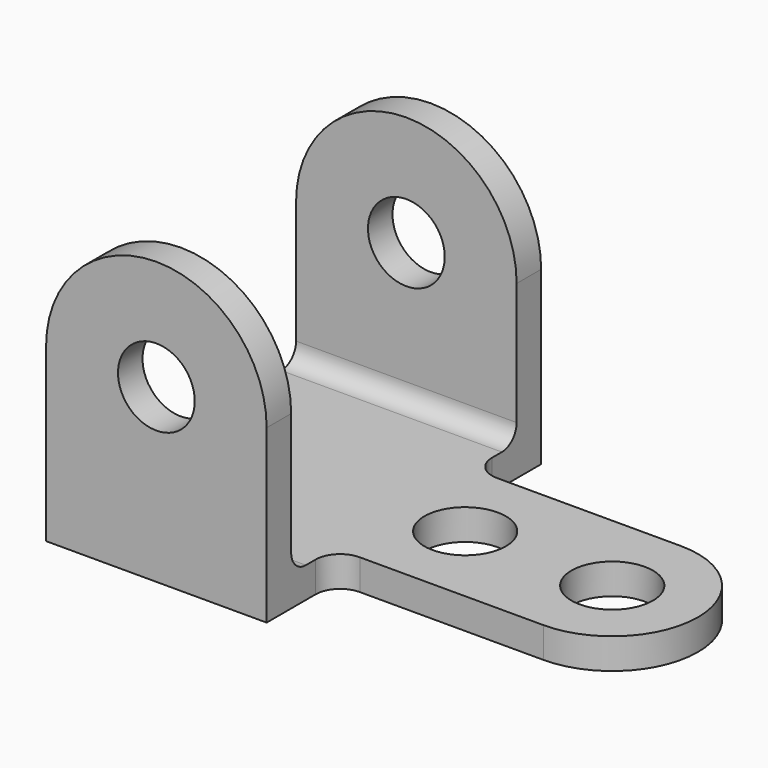
from build123d import *

# Parameters (mm, degrees)
F0_R     = 9.94537
F1_DEPTH = 88.9
F3_DEPTH = 57.151
F4_R     = 10.5537
F5_DEPTH = 7.9375


with BuildPart() as f1:
    # F0 (on Front) → F1 (new body)
    with BuildSketch(Plane.XZ):
        with BuildLine():
            Line((28.575, 0), (28.575, 44.45))
            ThreePointArc((28.575, 44.45), (0, 73.025), (-28.575, 44.45))
            Line((-28.575, 44.45), (-28.575, 0))
            Line((-28.575, 0), (28.575, 0))
        make_face()
        with Locations((0, 44.45)):
            Circle(F0_R, mode=Mode.SUBTRACT)
    extrude(amount=F1_DEPTH)

    # F2 (on face) → F3 (cut, through all)
    with BuildSketch(Plane.YZ.offset(28.575)):
        with BuildLine():
            Line((-7.9375, 77.544321), (-80.9625, 77.544321))
            Line((-80.9625, 77.544321), (-80.9625, 12.7))
            ThreePointArc((-80.9625, 12.7), (-79.567596, 9.332404), (-76.2, 7.9375))
            Line((-76.2, 7.9375), (-12.7127, 7.9375))
            ThreePointArc((-12.7127, 7.9375), (-9.336124, 9.336124), (-7.9375, 12.7127))
            Line((-7.9375, 12.7127), (-7.9375, 77.544321))
        make_face()
    extrude(amount=-F3_DEPTH, mode=Mode.SUBTRACT)

    # F4 (on Top) → F5 (join)
    with BuildSketch(Plane.XY):
        with BuildLine():
            ThreePointArc((34.925, -22.23135), (30.434872, -20.371478), (28.575, -15.88135))
            Line((28.575, -15.88135), (28.575, -73.03135))
            ThreePointArc((28.575, -73.03135), (30.434872, -68.541222), (34.925, -66.68135))
            Line((34.925, -66.68135), (82.55, -66.68135))
            ThreePointArc((82.55, -66.68135), (104.775, -44.45635), (82.55, -22.23135))
            Line((82.55, -22.23135), (34.925, -22.23135))
        make_face()
        with Locations((44.45, -44.45635)):
            Circle(F4_R, mode=Mode.SUBTRACT)
        with Locations((82.55, -44.45635)):
            Circle(F4_R, mode=Mode.SUBTRACT)
    extrude(amount=F5_DEPTH)


solid = f1.part
